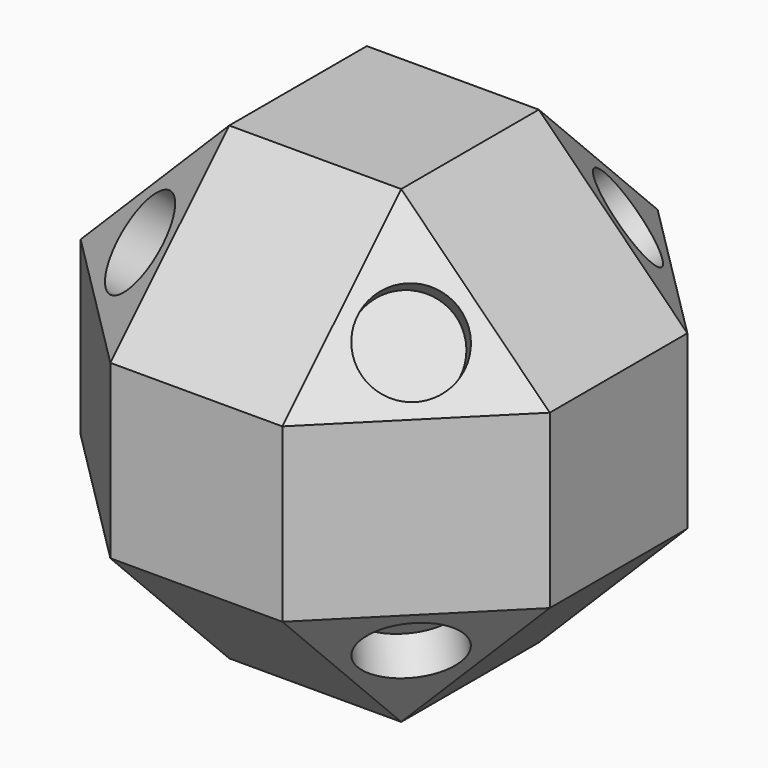
from build123d import *

# Parameters (mm, degrees)
F0_W      = 30
F0_H      = 30
F1_DEPTH  = 15
F2_SIZE   = 9.5
F3_R      = 3
F4_DEPTH  = 2.5
F5_R      = 3
F6_DEPTH  = 2.5
F7_R      = 3
F8_DEPTH  = 2.5
F9_R      = 3
F10_DEPTH = 2.5
F11_R     = 3
F12_DEPTH = 2.5
F13_R     = 3
F14_DEPTH = 2.5
F15_R     = 3
F16_DEPTH = 2.5
F17_R     = 3
F18_DEPTH = 2.5


with BuildPart() as f1:
    # F0 (on Front) → F1 (new body, symmetric)
    with BuildSketch(Plane.XZ):
        Rectangle(F0_W, F0_H)
    extrude(amount=F1_DEPTH, both=True)

    # F2
    f2_edges = [f1.edges().sort_by_distance(p)[0] for p in [
        (0, 15, -15),
        (0, 15, 15),
        (15, 15, 0),
        (-15, 15, 0),
        (15, 0, 15),
        (0, -15, 15),
        (-15, 0, 15),
        (-15, -15, 0),
        (15, -15, 0),
        (0, -15, -15),
        (-15, 0, -15),
        (15, 0, -15),
    ]]
    chamfer(f2_edges, length=F2_SIZE)

    # F3 (on face) → F4 (cut)
    with BuildSketch(Plane(origin=(-8.666667, 8.666667, 8.666667), x_dir=(-0.408248, -0.816497, 0.408248), z_dir=(-0.57735, 0.57735, 0.57735))):
        Circle(F3_R)
    extrude(amount=-F4_DEPTH, mode=Mode.SUBTRACT)

    # F5 (on face) → F6 (cut)
    with BuildSketch(Plane(origin=(8.666667, 8.666667, -8.666667), x_dir=(-0.408248, 0.816497, 0.408248), z_dir=(0.57735, 0.57735, -0.57735))):
        Circle(F5_R)
    extrude(amount=-F6_DEPTH, mode=Mode.SUBTRACT)

    # F7 (on face) → F8 (cut)
    with BuildSketch(Plane(origin=(-8.666667, 8.666667, -8.666667), x_dir=(-0.408248, -0.816497, -0.408248), z_dir=(-0.57735, 0.57735, -0.57735))):
        Circle(F7_R)
    extrude(amount=-F8_DEPTH, mode=Mode.SUBTRACT)

    # F9 (on face) → F10 (cut)
    with BuildSketch(Plane(origin=(-8.666667, -8.666667, 8.666667), x_dir=(0.816497, -0.408248, 0.408248), z_dir=(-0.57735, -0.57735, 0.57735))):
        Circle(F9_R)
    extrude(amount=-F10_DEPTH, mode=Mode.SUBTRACT)

    # F11 (on face) → F12 (cut)
    with BuildSketch(Plane(origin=(8.666667, -8.666667, 8.666667), x_dir=(0.816497, 0.408248, -0.408248), z_dir=(0.57735, -0.57735, 0.57735))):
        Circle(F11_R)
    extrude(amount=-F12_DEPTH, mode=Mode.SUBTRACT)

    # F13 (on face) → F14 (cut)
    with BuildSketch(Plane(origin=(-8.666667, -8.666667, -8.666667), x_dir=(0.408248, -0.816497, 0.408248), z_dir=(-0.57735, -0.57735, -0.57735))):
        Circle(F13_R)
    extrude(amount=-F14_DEPTH, mode=Mode.SUBTRACT)

    # F15 (on face) → F16 (cut)
    with BuildSketch(Plane(origin=(8.666667, 8.666667, 8.666667), x_dir=(-0.408248, 0.816497, -0.408248), z_dir=(0.57735, 0.57735, 0.57735))):
        Circle(F15_R)
    extrude(amount=-F16_DEPTH, mode=Mode.SUBTRACT)

    # F17 (on face) → F18 (cut)
    with BuildSketch(Plane(origin=(8.666667, -8.666667, -8.666667), x_dir=(0.408248, 0.816497, -0.408248), z_dir=(0.57735, -0.57735, -0.57735))):
        Circle(F17_R)
    extrude(amount=-F18_DEPTH, mode=Mode.SUBTRACT)


solid = f1.part
